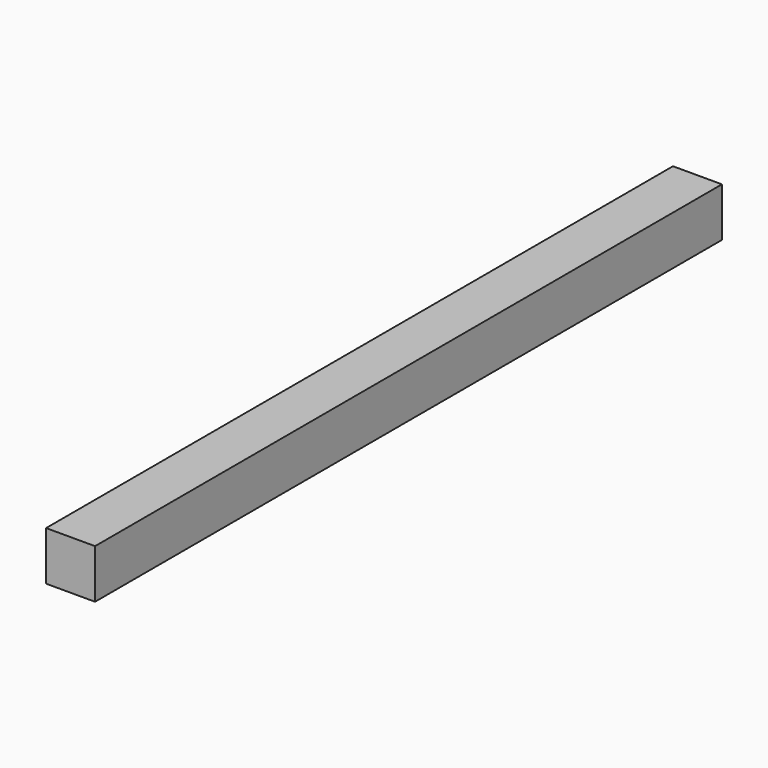
from build123d import *

# Parameters (mm, degrees)
F0_W     = 38.1
F0_H     = 38.1
F1_DEPTH = 254
F2_DEPTH = 101.6
F3_DEPTH = 152.4
F4_DEPTH = 101.6


with BuildPart() as f1:
    # F0 (on Front) → F1 (new body)
    with BuildSketch(Plane.XZ):
        with Locations((-56.8064840019, 51.512887466)):
            Rectangle(F0_W, F0_H)
    extrude(amount=F1_DEPTH)

    # F2 (add): a face of the model
    f2_faces = [f1.faces().sort_by_distance(p)[0] for p in [
        (-56.8064840019, 0, 51.512887466),
    ]]
    extrude(f2_faces, amount=F2_DEPTH)

    # F3 (add): a face of the model
    f3_faces = [f1.faces().sort_by_distance(p)[0] for p in [
        (-56.8064840019, -254, 51.512887466),
    ]]
    extrude(f3_faces, amount=F3_DEPTH)

    # F4 (add): a face of the model
    f4_faces = [f1.faces().sort_by_distance(p)[0] for p in [
        (-56.8064840019, -406.4, 51.512887466),
    ]]
    extrude(f4_faces, amount=F4_DEPTH)


solid = f1.part
